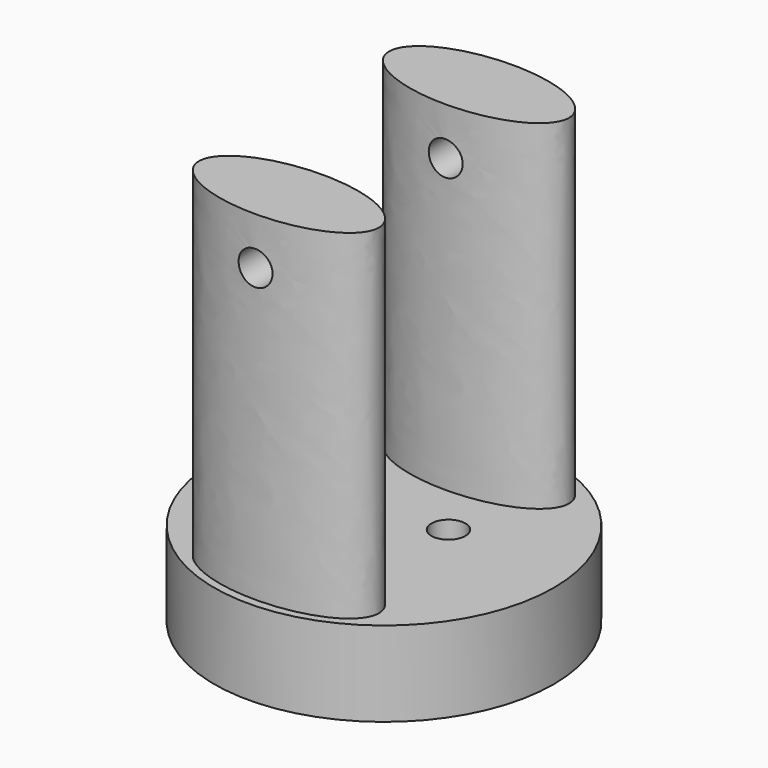
from build123d import *

# Parameters (mm, degrees)
F0_R          = 50
F0_R_2        = 5
F1_DEPTH      = 25
F3_DEPTH      = 100
F4_R          = 5
F5_DEPTH      = 50.001
F5_DEPTH_BACK = 50.001


with BuildPart() as f1:
    # F0 (on Top) → F1 (new body)
    with BuildSketch(Plane.XY):
        Circle(F0_R)
        with Locations((0, -15)):
            Circle(F0_R_2, mode=Mode.SUBTRACT)
        with Locations((-12.990381, 7.5)):
            Circle(F0_R_2, mode=Mode.SUBTRACT)
        with Locations((12.990381, 7.5)):
            Circle(F0_R_2, mode=Mode.SUBTRACT)
    extrude(amount=F1_DEPTH)

    # F2 (on face) → F3 (join)
    with BuildSketch(Plane.XY.offset(25)):
        with BuildLine():
            add(Edge.make_bspline(
                [(26.5, 35), (26.5, 56.650635), (-13.25, 45.825318), (-53, 35), (-13.25, 24.174682), (26.5, 13.349365), (26.5, 35)],
                knots=[0, 0, 0, 2.094395, 2.094395, 4.18879, 4.18879, 6.283185, 6.283185, 6.283185], degree=2, weights=[1, 0.5, 1, 0.5, 1, 0.5, 1]))
        make_face()
        with BuildLine():
            add(Edge.make_bspline(
                [(26.5, -35), (26.5, -13.349365), (-13.25, -24.174682), (-53, -35), (-13.25, -45.825318), (26.5, -56.650635), (26.5, -35)],
                knots=[0, 0, 0, 2.094395, 2.094395, 4.18879, 4.18879, 6.283185, 6.283185, 6.283185], degree=2, weights=[1, 0.5, 1, 0.5, 1, 0.5, 1]))
        make_face()
    extrude(amount=F3_DEPTH)

    # F4 (on Front) → F5 (cut, two sides)
    with BuildSketch(Plane.XZ) as f5_sk:
        with Locations((0, 111)):
            Circle(F4_R)
    extrude(amount=F5_DEPTH, mode=Mode.SUBTRACT)
    extrude(f5_sk.sketch, amount=-F5_DEPTH_BACK, mode=Mode.SUBTRACT)


solid = f1.part
